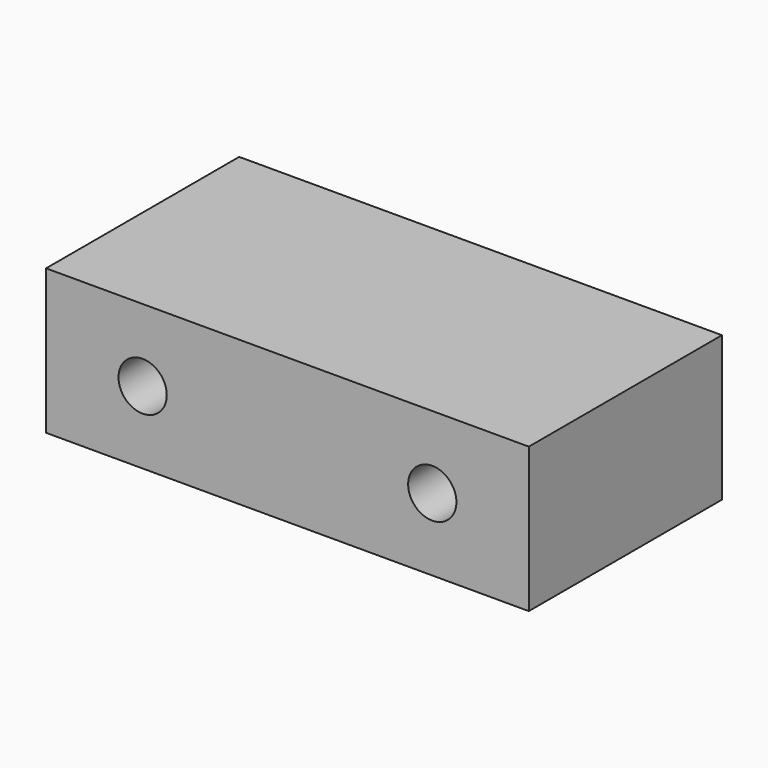
from build123d import *

# Parameters (mm, degrees)
F0_W     = 50
F0_H     = 15
F0_R     = 2.5
F1_DEPTH = 12.5


with BuildPart() as f1:
    # F0 (on Front) → F1 (new body, symmetric)
    with BuildSketch(Plane.XZ):
        Rectangle(F0_W, F0_H)
        with Locations((-15, 0)):
            Circle(F0_R, mode=Mode.SUBTRACT)
        with Locations((15, 0)):
            Circle(F0_R, mode=Mode.SUBTRACT)
    extrude(amount=F1_DEPTH, both=True)


solid = f1.part
